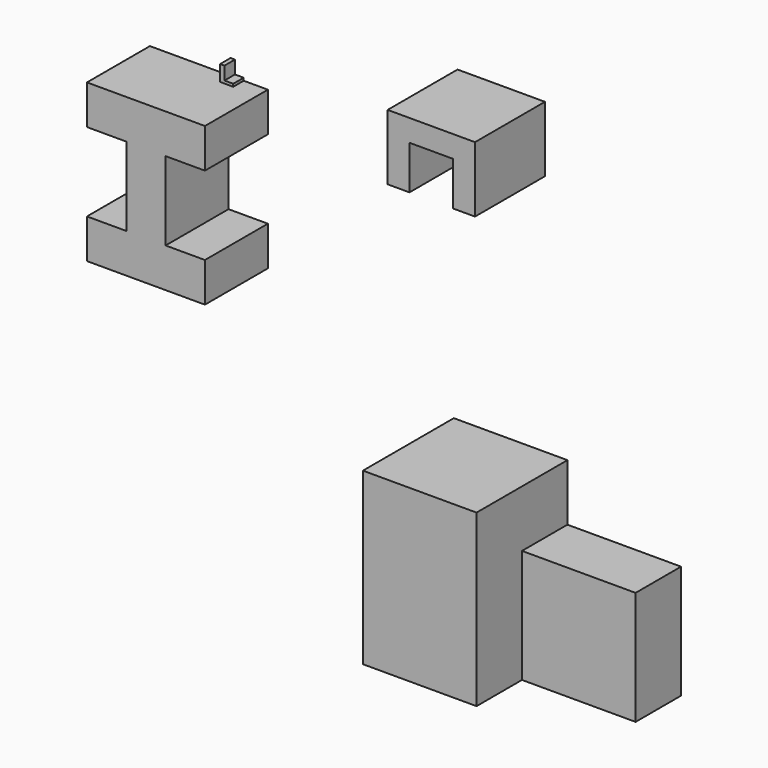
from build123d import *

# Parameters (mm, degrees)
F1_DEPTH = 3
F3_DEPTH = 20
F5_DEPTH = 18
F6_W     = 26
F6_H     = 39
F7_DEPTH = 26
F8_W     = 13
F8_H     = 26
F9_DEPTH = 26


with BuildPart() as f1:
    # F0 (on Front) → F1 (new body)
    with BuildSketch(Plane.XZ):
        Polygon((-32.071659, 46.83319), (-33.071659, 46.83319), (-33.071659, 42.83319), (-30.071659, 42.83319), (-30.071659, 43.83319), (-32.071659, 43.83319), align=None)
    extrude(amount=F1_DEPTH)

    # F4 (on Front) → F5 (join)
    with BuildSketch(Plane.XZ):
        Polygon((-24.5427, 43.220366), (-51.5427, 43.220366), (-51.5427, 34.220366), (-42.5427, 34.220366), (-42.5427, 16.220366), (-51.5427, 16.220366), (-51.5427, 7.220366), (-24.5427, 7.220366), (-24.5427, 16.220366), (-33.5427, 16.220366), (-33.5427, 34.220366), (-24.5427, 34.220366), align=None)
    extrude(amount=F5_DEPTH)


with BuildPart() as f3:
    # F2 (on Front) → F3 (new body)
    with BuildSketch(Plane.XZ):
        Polygon((18.863813, 61.395953), (18.863813, 46.395953), (23.863813, 46.395953), (23.863813, 56.395953), (33.863813, 56.395953), (33.863813, 46.395953), (38.863813, 46.395953), (38.863813, 61.395953), align=None)
    extrude(amount=F3_DEPTH)


with BuildPart() as f7:
    # F6 (on Front) → F7 (new body)
    with BuildSketch(Plane.XZ):
        with Locations((31.011138, -28.620553)):
            Rectangle(F6_W, F6_H)
    extrude(amount=F7_DEPTH)

    # F8 (on face) → F9 (join)
    with BuildSketch(Plane.YZ.offset(44.011138)):
        with Locations((-6.5, -35.120553)):
            Rectangle(F8_W, F8_H)
    extrude(amount=F9_DEPTH)


solid = Compound([f1.part, f3.part, f7.part])
